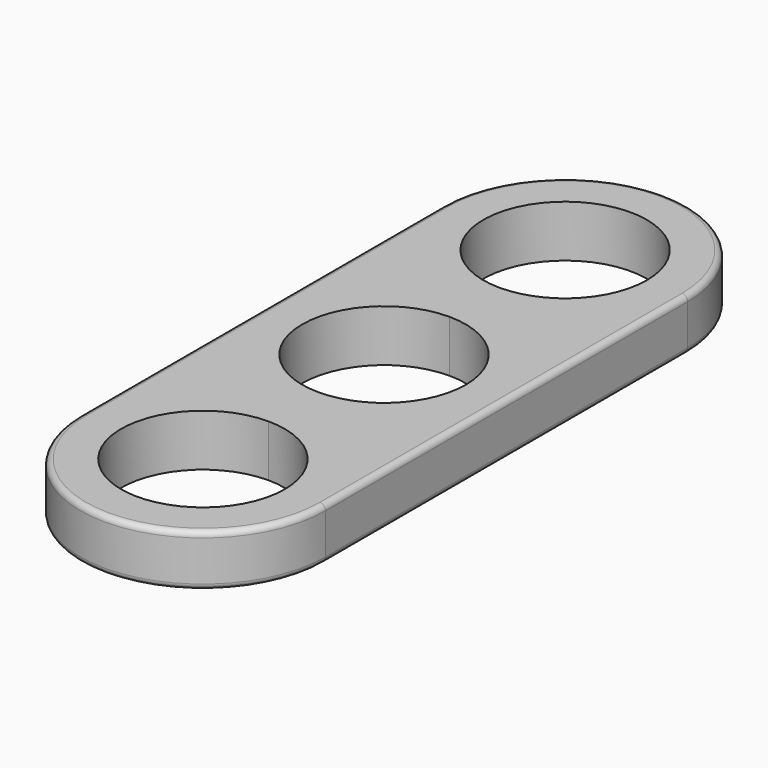
from build123d import *

# Parameters (mm, degrees)
F1_DEPTH = 6.985
F2_R     = 0.762
F3_R     = 0.762


with BuildPart() as f1:
    # F0 (on Top) → F1 (new body)
    with BuildSketch(Plane.XY):
        with BuildLine():
            ThreePointArc((0, 11.0109), (7.785882, 7.785882), (11.0109, 0))
            ThreePointArc((11.0109, 0), (7.785882, -7.785882), (0, -11.0109))
            Line((0, -11.0109), (0, -13.97))
            ThreePointArc((0, -13.97), (11.674333, -18.805667), (16.51, -30.48))
            Line((16.51, -30.48), (16.51, 30.48))
            ThreePointArc((16.51, 30.48), (11.674333, 18.805667), (0, 13.97))
            Line((0, 13.97), (0, 11.0109))
        make_face()
        with BuildLine():
            ThreePointArc((0, -11.0109), (-11.0109, 0), (0, 11.0109))
            Line((0, 11.0109), (0, 13.97))
            ThreePointArc((0, 13.97), (-11.674333, 18.805667), (-16.51, 30.48))
            Line((-16.51, 30.48), (-16.51, -30.48))
            ThreePointArc((-16.51, -30.48), (-11.674333, -18.805667), (0, -13.97))
            Line((0, -13.97), (0, -11.0109))
        make_face()
        with BuildLine():
            ThreePointArc((11.0109, 30.48), (-7.785882, 38.265882), (0, 19.4691))
            ThreePointArc((0, 19.4691), (7.785882, 22.694118), (11.0109, 30.48))
        make_face()
        with BuildLine():
            ThreePointArc((-16.51, 30.48), (-11.674333, 18.805667), (0, 13.97))
            ThreePointArc((0, 13.97), (11.674333, 18.805667), (16.51, 30.48))
            ThreePointArc((16.51, 30.48), (0, 46.99), (-16.51, 30.48))
        make_face()
        with BuildLine():
            ThreePointArc((11.0109, 30.48), (7.785882, 22.694118), (0, 19.4691))
            ThreePointArc((0, 19.4691), (-7.785882, 38.265882), (11.0109, 30.48))
        make_face(mode=Mode.SUBTRACT)
        with BuildLine():
            ThreePointArc((11.0109, -30.48), (7.785882, -22.694118), (0, -19.4691))
            ThreePointArc((0, -19.4691), (-7.785882, -38.265882), (11.0109, -30.48))
        make_face()
        with BuildLine():
            ThreePointArc((16.51, -30.48), (11.674333, -18.805667), (0, -13.97))
            ThreePointArc((0, -13.97), (-11.674333, -18.805667), (-16.51, -30.48))
            ThreePointArc((-16.51, -30.48), (0, -46.99), (16.51, -30.48))
        make_face()
        with BuildLine():
            ThreePointArc((11.0109, -30.48), (-7.785882, -38.265882), (0, -19.4691))
            ThreePointArc((0, -19.4691), (7.785882, -22.694118), (11.0109, -30.48))
        make_face(mode=Mode.SUBTRACT)
    extrude(amount=F1_DEPTH)

    # F2
    f2_edges = [f1.edges().sort_by_distance(p)[0] for p in [
        (16.51, 0, 6.985),
    ]]
    fillet(f2_edges, radius=F2_R)

    # F3
    f3_edges = [f1.edges().sort_by_distance(p)[0] for p in [
        (0, -46.99, 0),
        (16.51, 0, 0),
        (-16.51, 30.48, 3.1115),
        (-16.51, 0, 0),
    ]]
    fillet(f3_edges, radius=F3_R)


solid = f1.part
